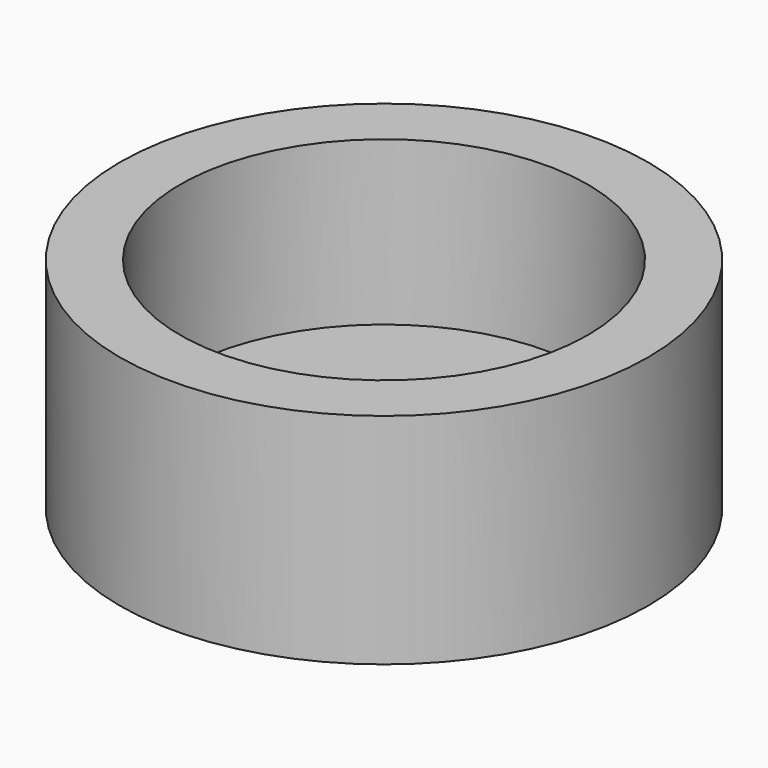
from build123d import *

# Parameters (mm, degrees)
F0_R     = 14.25
F0_R_2   = 11
F1_DEPTH = 11.8
F0_R_3   = 4
F2_DEPTH = 3


with BuildPart() as f1:
    # F0 (on Top) → F1 (new body)
    with BuildSketch(Plane.XY):
        Circle(F0_R)
        Circle(F0_R_2, mode=Mode.SUBTRACT)
    extrude(amount=F1_DEPTH)

    # F0 (on Top) → F2 (join)
    with BuildSketch(Plane.XY):
        Circle(F0_R)
        Circle(F0_R_2, mode=Mode.SUBTRACT)
        Circle(F0_R_2)
        Circle(F0_R_3, mode=Mode.SUBTRACT)
    extrude(amount=F2_DEPTH)


solid = f1.part
